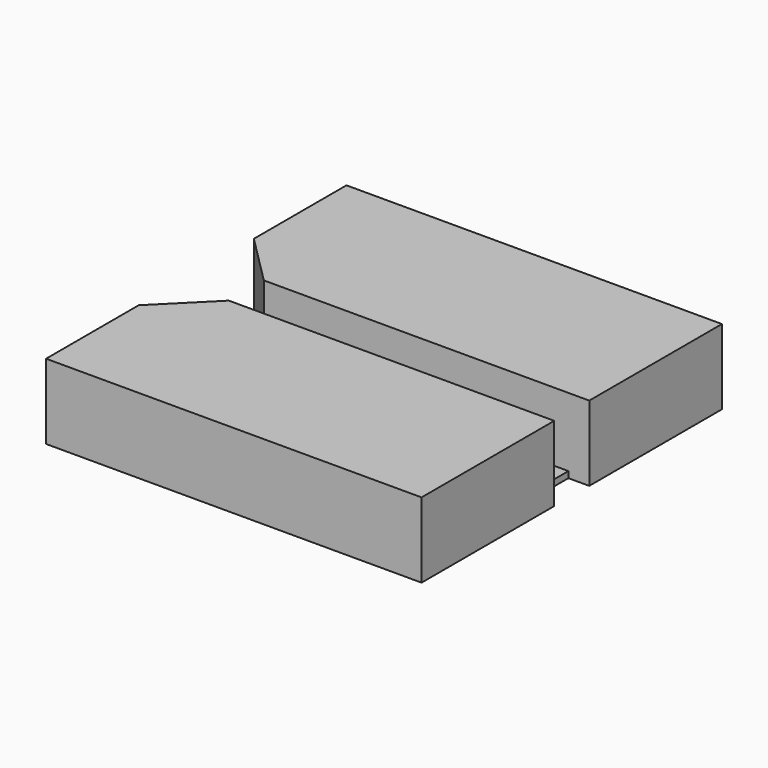
from build123d import *

# Parameters (mm, degrees)
SKETCH_W     = 121
SKETCH_H     = 21
PAD_DEPTH    = 3
PAD001_DEPTH = 34
PAD002_DEPTH = 2
SKETCH003_W  = 10
SKETCH003_H  = 21
POCKET_DEPTH = 36.001


with BuildPart() as part:
    # Sketch → Pad (new body)
    with BuildSketch(Plane.XY):
        with Locations((60.5, 10.5)):
            Rectangle(SKETCH_W, SKETCH_H)
    extrude(amount=PAD_DEPTH)

    # Sketch001 (on Face5 of Pad) → Pad001 (join)
    with BuildSketch(Plane(origin=(0, 0, 0), x_dir=(1, 0, 0), z_dir=(0, 0, -1))):
        Polygon((121, -100.5), (121, -21), (-35, -21), (-59, -45), (-59, -100.5), align=None)
        Polygon((119, -98.5), (119, -23), (-34.171573, -23), (-57, -45.828427), (-57, -98.5), align=None, mode=Mode.SUBTRACT)
        Polygon((121, 0), (-35, 0), (-59, 24), (-59, 79.5), (121, 79.5), align=None)
        Polygon((-57, 77.5), (-57, 24.828427), (-34.171573, 2), (119, 2), (119, 77.5), align=None, mode=Mode.SUBTRACT)
    extrude(amount=-PAD001_DEPTH)

    # Sketch002 (on Face3 of Pad001) → Pad002 (join)
    with BuildSketch(Plane.XY.offset(34)):
        Polygon((-59, -79.5), (-59, -24), (-35, 0), (121, 0), (121, -79.5), align=None)
        Polygon((-35, 21), (-59, 45), (-59, 100.5), (121, 100.5), (121, 21), align=None)
    extrude(amount=PAD002_DEPTH)

    # Sketch003 (on Face5 of Pad002) → Pocket (cut, through all)
    with BuildSketch(Plane(origin=(0, 0, 0), x_dir=(1, 0, 0), z_dir=(0, 0, -1))):
        with Locations((116, -10.5)):
            Rectangle(SKETCH003_W, SKETCH003_H)
    extrude(amount=-POCKET_DEPTH, mode=Mode.SUBTRACT)


solid = part.part
